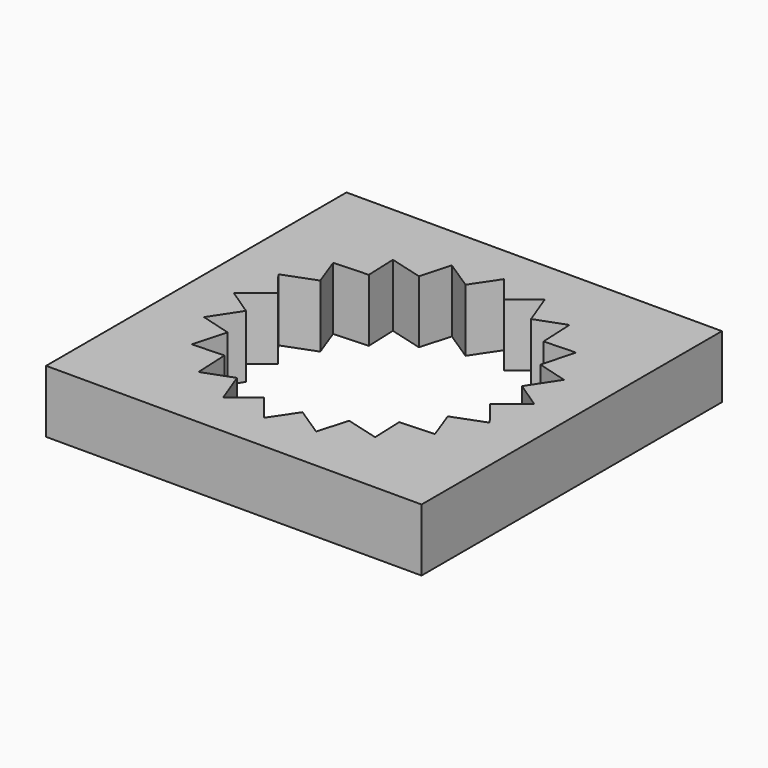
from build123d import *

# Parameters (mm, degrees)
F0_W     = 152.4
F0_H     = 152.4
F1_DEPTH = 25.4


with BuildPart() as f1:
    # F0 (on Top) → F1 (new body)
    with BuildSketch(Plane.XY):
        Rectangle(F0_W, F0_H)
        Polygon((-7.154749, 50.293633), (0, 60.96), (8.737017, 50.043027), (18.837676, 57.976405), (23.773542, 44.89386), (35.831389, 49.317676), (36.482948, 35.35017), (49.317676, 35.831389), (45.621149, 22.346158), (57.976405, 18.837676), (50.293633, 7.154749), (60.96, 0), (50.043027, -8.737017), (57.976405, -18.837676), (44.89386, -23.773542), (49.317676, -35.831389), (35.35017, -36.482948), (35.831389, -49.317676), (22.346158, -45.621149), (18.837676, -57.976405), (7.154749, -50.293633), (0, -60.96), (-8.737017, -50.043027), (-18.837676, -57.976405), (-23.773542, -44.89386), (-35.831389, -49.317676), (-36.482948, -35.35017), (-49.317676, -35.831389), (-45.621149, -22.346158), (-57.976405, -18.837676), (-50.293633, -7.154749), (-60.96, 0), (-50.043027, 8.737017), (-57.976405, 18.837676), (-44.89386, 23.773542), (-49.317676, 35.831389), (-35.35017, 36.482948), (-35.831389, 49.317676), (-22.346158, 45.621149), (-18.837676, 57.976405), align=None, mode=Mode.SUBTRACT)
    extrude(amount=F1_DEPTH)


solid = f1.part
